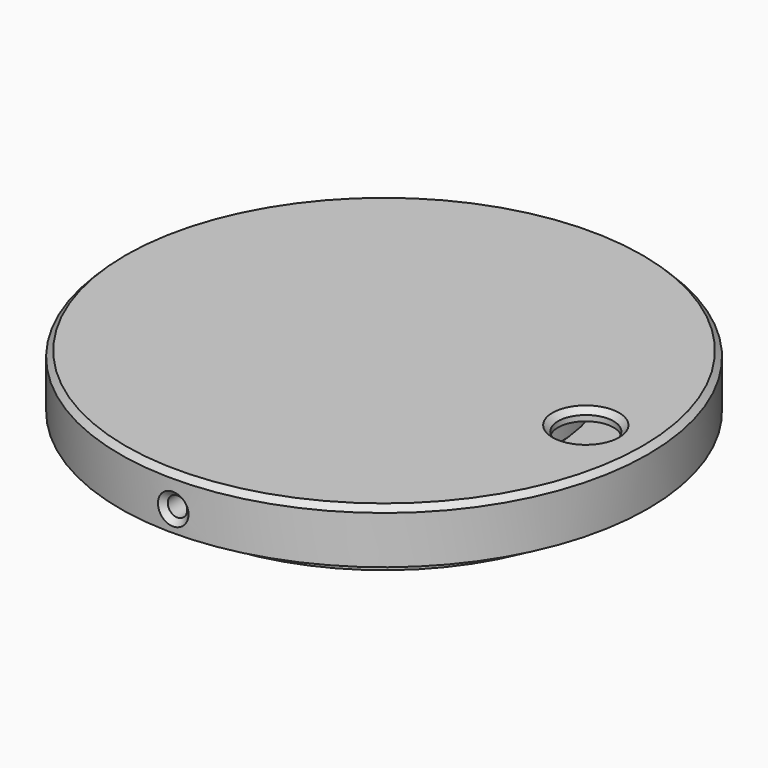
from build123d import *

# Parameters (mm, degrees)
SKETCH_R        = 39.95
SKETCH_R_2      = 28.75
PAD_DEPTH       = 7.5
SKETCH011_R     = 3.1
POCKET003_DEPTH = 7.501
SKETCH012_R     = 47.5
PAD001_DEPTH    = 2
SKETCH013_R     = 30.8
SKETCH013_R_2   = 2.8
PAD002_DEPTH    = 4
CHAMFER_SIZE    = 1
SKETCH014_R     = 47.5
SKETCH014_R_2   = 42.95
PAD003_DEPTH    = 7.6
CHAMFER001_SIZE = 1
SKETCH015_R     = 1.75
POCKET_DEPTH    = 15
SKETCH016_R     = 1.75
POCKET004_DEPTH = 15
SKETCH017_R     = 1.75
POCKET005_DEPTH = 15
CHAMFER002_SIZE = 1
CHAMFER003_SIZE = 1
SKETCH018_R     = 5
POCKET006_DEPTH = 5
CHAMFER004_SIZE = 1


with BuildPart() as ring_spacer:
    # Sketch → Pad (new body)
    with BuildSketch(Plane.XY):
        Circle(SKETCH_R)
        Circle(SKETCH_R_2, mode=Mode.SUBTRACT)
    extrude(amount=PAD_DEPTH)

    # Sketch011 (on DatumPlane) → Pocket003 (cut, through all)
    with BuildSketch(Plane.XY.offset(7.5)):
        with Locations((-29.747973, 17.175)):
            Circle(SKETCH011_R)
        with Locations((-29.747973, -17.175)):
            Circle(SKETCH011_R)
        with Locations((-17.175, 29.747973)):
            Circle(SKETCH011_R)
        with Locations((-17.175, -29.747973)):
            Circle(SKETCH011_R)
    extrude(amount=-POCKET003_DEPTH, mode=Mode.SUBTRACT)


with BuildPart() as ring_spacer_1:
    # Body placement: moved
    add(ring_spacer.part.moved(Location((0, 0, -12))))


with BuildPart() as jig:
    # Sketch012 → Pad001 (new body)
    with BuildSketch(Plane.XY):
        Circle(SKETCH012_R)
    extrude(amount=PAD001_DEPTH)

    # Sketch013 (on Face2 of Pad001) → Pad002 (join)
    with BuildSketch(Plane(origin=(0, 0, 0), x_dir=(1, 0, 0), z_dir=(0, 0, -1))):
        Circle(SKETCH013_R)
        with Locations((-31.939017, 18.44)):
            Circle(SKETCH013_R_2)
        with Locations((-18.4375, 31.934687)):
            Circle(SKETCH013_R_2)
        with Locations((-31.939017, -18.44)):
            Circle(SKETCH013_R_2)
        with Locations((-18.44, -31.939017)):
            Circle(SKETCH013_R_2)
    extrude(amount=PAD002_DEPTH)

    # Chamfer
    chamfer_edges = [jig.edges().sort_by_distance(p)[0] for p in [
        (-30.8, 0, -4),
        (-34.739017, -18.44, -4),
        (-21.2375, -31.934687, -4),
        (-34.739017, 18.44, -4),
        (-21.24, 31.939017, -4),
    ]]
    chamfer(chamfer_edges, length=CHAMFER_SIZE)

    # Sketch014 (on Face3 of Chamfer) → Pad003 (join)
    with BuildSketch(Plane(origin=(0, 0, 0), x_dir=(1, 0, 0), z_dir=(0, 0, -1))):
        Circle(SKETCH014_R)
        Circle(SKETCH014_R_2, mode=Mode.SUBTRACT)
    extrude(amount=PAD003_DEPTH)

    # Chamfer001
    chamfer001_edges = [jig.edges().sort_by_distance(p)[0] for p in [
        (-42.95, 0, -7.6),
    ]]
    chamfer(chamfer001_edges, length=CHAMFER001_SIZE)

    # Sketch015 (on DatumPlane) → Pocket (cut)
    with BuildSketch(Plane(origin=(-50, 0, -7.6), x_dir=(0, 0, 1), z_dir=(1, 0, 0))):
        with Locations((3.8, 0)):
            Circle(SKETCH015_R)
    extrude(amount=POCKET_DEPTH, mode=Mode.SUBTRACT)

    # Sketch016 (on DatumPlane) → Pocket004 (cut)
    with BuildSketch(Plane(origin=(0, 50, -7.6), x_dir=(1, 0, 0), z_dir=(0, 1, 0))):
        with Locations((0, -3.8)):
            Circle(SKETCH016_R)
    extrude(amount=-POCKET004_DEPTH, mode=Mode.SUBTRACT)

    # Sketch017 (on DatumPlane) → Pocket005 (cut)
    with BuildSketch(Plane(origin=(0, -50, -7.6), x_dir=(1, 0, 0), z_dir=(0, 1, 0))):
        with Locations((0, -3.8)):
            Circle(SKETCH017_R)
    extrude(amount=POCKET005_DEPTH, mode=Mode.SUBTRACT)

    # Chamfer002
    chamfer002_edges = [jig.edges().sort_by_distance(p)[0] for p in [
        (-1.75, -47.467752, -3.8),
        (-47.5, 0, -5.55),
        (-1.75, 47.467752, -3.8),
    ]]
    chamfer(chamfer002_edges, length=CHAMFER002_SIZE)

    # Chamfer003
    chamfer003_edges = [jig.edges().sort_by_distance(p)[0] for p in [
        (-47.5, 0, 2),
    ]]
    chamfer(chamfer003_edges, length=CHAMFER003_SIZE)

    # Sketch018 (on Face13 of Chamfer003) → Pocket006 (cut)
    with BuildSketch(Plane(origin=(0, 0, 0), x_dir=(1, 0, 0), z_dir=(0, 0, -1))):
        with Locations((36.3, 0)):
            Circle(SKETCH018_R)
    extrude(amount=-POCKET006_DEPTH, mode=Mode.SUBTRACT)

    # Chamfer004
    chamfer004_edges = [jig.edges().sort_by_distance(p)[0] for p in [
        (31.3, 0, 2),
    ]]
    chamfer(chamfer004_edges, length=CHAMFER004_SIZE)


solid = Compound([ring_spacer_1.part, jig.part])
